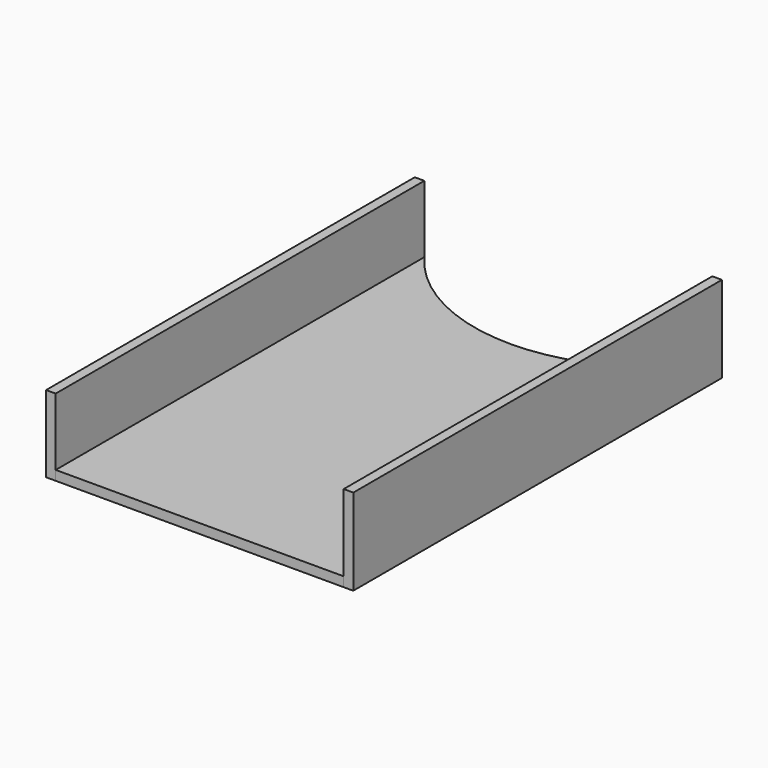
from build123d import *

# Parameters (mm, degrees)
F1_DEPTH = 3.175
F2_W     = 3.175
F2_H     = 152.4
F3_DEPTH = 28.575
F4_DEPTH = 25.4


with BuildPart() as f1:
    # F0 (on Top) → F1 (new body)
    with BuildSketch(Plane.XY):
        with BuildLine():
            Line((-40.515711, -68.295603), (-40.515711, -71.470603))
            Line((-40.515711, -71.470603), (54.734289, -71.470603))
            Line((54.734289, -71.470603), (54.734289, -63.526561))
            Line((54.734289, -63.526561), (54.734289, 80.929397))
            ThreePointArc((54.734289, 80.929397), (7.109289, 56.886774), (-40.515711, 80.929397))
            Line((-40.515711, 80.929397), (-40.515711, -68.295603))
        make_face()
    extrude(amount=F1_DEPTH)


with BuildPart() as f3:
    # F2 (on Top) → F3 (new body)
    with BuildSketch(Plane.XY):
        with Locations((56.321752, 4.729441)):
            Rectangle(F2_W, F2_H)
    extrude(amount=F3_DEPTH)


with BuildPart() as f4:
    # F2 (on Top) → F4 (new body)
    with BuildSketch(Plane.XY):
        with Locations((-42.103079, 4.729434)):
            Rectangle(F2_W, F2_H)
    extrude(amount=F4_DEPTH)


solid = Compound([f1.part, f3.part, f4.part])
